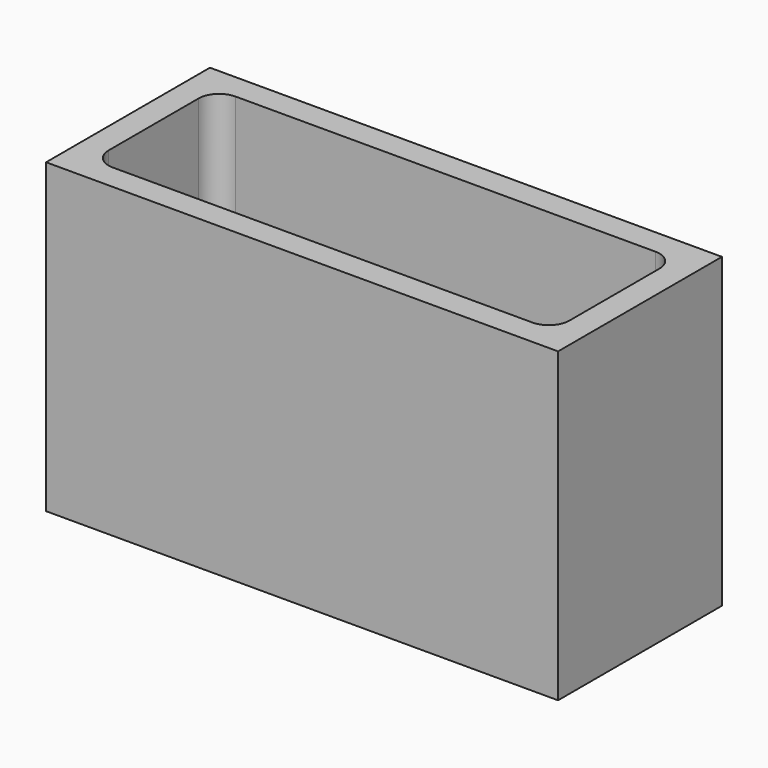
from build123d import *

# Parameters (mm, degrees)
F1_DEPTH = 76.2
F2_R     = 5.08


with BuildPart() as f1:
    # F0 (on Top) → F1 (new body)
    with BuildSketch(Plane.XY):
        Polygon((-63.5, 0), (0, 0), (63.5, 0), (63.5, 50.8), (0, 50.8), (-63.5, 50.8), align=None)
        Polygon((57.15, 6.35), (0, 6.35), (-57.15, 6.35), (-57.15, 44.45), (0, 44.45), (57.15, 44.45), align=None, mode=Mode.SUBTRACT)
    extrude(amount=F1_DEPTH)

    # F2
    f2_edges = [f1.edges().sort_by_distance(p)[0] for p in [
        (-57.15, 44.45, 38.1),
        (57.15, 44.45, 38.1),
        (-57.15, 6.35, 38.1),
        (57.15, 6.35, 38.1),
    ]]
    fillet(f2_edges, radius=F2_R)


solid = f1.part
